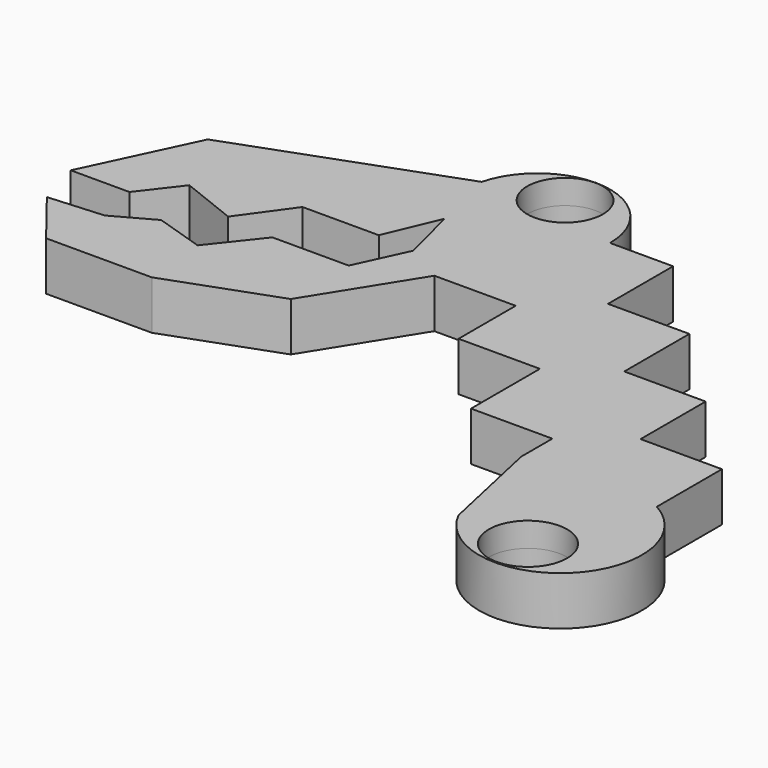
from build123d import *

# Parameters (mm, degrees)
F0_R          = 3.6659795791
F1_DEPTH      = 2.286
F1_DEPTH_BACK = 2.286


with BuildPart() as f1:
    # F0 (on Top) → F1 (new body, two sides)
    with BuildSketch(Plane.XY) as f1_sk:
        with BuildLine():
            ThreePointArc((-10.7581636849, 38.5943156396), (-12.3120194853, 41.5236119371), (-12.2948130254, 44.8394751105))
            Line((-12.2948130254, 44.8394751105), (-32.1341768742, 37.5786978342))
            Line((-32.1341768742, 37.5786978342), (-36.8999519289, 27.4972548299))
            Line((-36.8999519289, 27.4972548299), (-31.4009838641, 27.4972548299))
            Line((-31.4009838641, 27.4972548299), (-28.6514998317, 31.071584724))
            Line((-28.6514998317, 31.071584724), (-23.3358272255, 28.9636466709))
            Line((-23.3358272255, 28.9636466709), (-20.0364456416, 33.5461209119))
            Line((-20.0364456416, 33.5461209119), (-12.8877867848, 33.5461209119))
            Line((-12.8877867848, 33.5461209119), (-10.7581636849, 38.5943156396))
        make_face()
        with BuildLine():
            Line((-5.712940873, 31.071584724), (-5.712940873, 36.3514380628))
            ThreePointArc((-5.712940873, 36.3514380628), (-8.4735917494, 36.9374208909), (-10.7581636849, 38.5943156396))
            Line((-10.7581636849, 38.5943156396), (-9.405106017, 33.179522777))
            Line((-9.405106017, 33.179522777), (-11.6046943605, 28.413749585))
            Line((-11.6046943605, 28.413749585), (-18.7533550799, 28.413749585))
            Line((-18.7533550799, 28.413749585), (-22.2360358477, 24.0145740621))
            Line((-22.2360358477, 24.0145740621), (-26.8185079933, 25.4809661359))
            Line((-26.8185079933, 25.4809661359), (-30.4844879449, 23.4646779076))
            Line((-30.4844879449, 23.4646779076), (-35.6168613673, 23.0980795399))
            Line((-35.6168613673, 23.0980795399), (-31.584283048, 17.9657079802))
            Line((-31.584283048, 17.9657079802), (-21.6861382962, 17.9657079802))
            Line((-21.6861382962, 17.9657079802), (-11.6046943605, 21.6316870005))
            Line((-11.6046943605, 21.6316870005), (-5.712940873, 31.071584724))
        make_face()
        with BuildLine():
            Line((-4.2532354575, 43.1473446608), (1.0829657251, 43.1473446608))
            ThreePointArc((1.0829657251, 43.1473446608), (-4.8601343001, 49.8895303182), (-12.2948130254, 44.8394751105))
            ThreePointArc((-12.2948130254, 44.8394751105), (-12.3120194853, 41.5236119371), (-10.7581636849, 38.5943156396))
            ThreePointArc((-10.7581636849, 38.5943156396), (-8.4735917494, 36.9374208909), (-5.712940873, 36.3514380628))
            Line((-5.712940873, 36.3514380628), (-5.712940873, 42.832795892))
            ThreePointArc((-5.712940873, 42.832795892), (-8.219106195, 48.883214202), (-2.168687885, 46.3770488799))
            ThreePointArc((-2.168687885, 46.3770488799), (-2.7350813629, 44.4550494051), (-4.2532354575, 43.1473446608))
        make_face()
        with BuildLine():
            ThreePointArc((-5.712940873, 36.3514380628), (-0.9075092332, 38.341913021), (1.0829657251, 43.1473446608))
            Line((1.0829657251, 43.1473446608), (-4.2532354575, 43.1473446608))
            ThreePointArc((-4.2532354575, 43.1473446608), (-4.9663350821, 42.9123253649), (-5.712940873, 42.832795892))
            Line((-5.712940873, 42.832795892), (-5.712940873, 36.3514380628))
        make_face()
        with BuildLine():
            Line((6.987059127, 35.5273446608), (6.987059127, 43.1473446608))
            Line((6.987059127, 43.1473446608), (1.0829657251, 43.1473446608))
            ThreePointArc((1.0829657251, 43.1473446608), (-0.9075092332, 38.341913021), (-5.712940873, 36.3514380628))
            Line((-5.712940873, 36.3514380628), (-5.712940873, 31.071584724))
            Line((-5.712940873, 31.071584724), (1.907059127, 31.071584724))
            Line((1.907059127, 31.071584724), (1.907059127, 24.3811724298))
            Line((1.907059127, 24.3811724298), (9.527059127, 24.3811724298))
            Line((9.527059127, 24.3811724298), (9.527059127, 16.3160171882))
            Line((9.527059127, 16.3160171882), (17.147059127, 16.3160171882))
            Line((17.147059127, 16.3160171882), (17.147059127, 12.6673446608))
            Line((17.147059127, 12.6673446608), (22.4627302145, 12.6673446608))
            Line((22.4627302145, 12.6673446608), (29.847059127, 12.6673446608))
            Line((29.847059127, 12.6673446608), (29.847059127, 20.2873446608))
            Line((29.847059127, 20.2873446608), (22.227059127, 20.2873446608))
            Line((22.227059127, 20.2873446608), (22.227059127, 27.9073446608))
            Line((22.227059127, 27.9073446608), (14.607059127, 27.9073446608))
            Line((14.607059127, 27.9073446608), (14.607059127, 35.5273446608))
            Line((14.607059127, 35.5273446608), (6.987059127, 35.5273446608))
        make_face()
        with BuildLine():
            Line((29.847059127, 12.6673446608), (22.4627302145, 12.6673446608))
            ThreePointArc((22.4627302145, 12.6673446608), (19.6683145281, 10.0001717736), (18.54095211, 6.3053613295))
            Line((18.54095211, 6.3053613295), (19.3654773553, 2.5420768229))
            ThreePointArc((19.3654773553, 2.5420768229), (31.449090173, 0.5210860144), (29.847059127, 12.6673446608))
        make_face()
        with Locations((26.1548946708, 2.2019967959)):
            Circle(F0_R, mode=Mode.SUBTRACT)
        with BuildLine():
            Line((22.4627302145, 12.6673446608), (17.147059127, 12.6673446608))
            Line((17.147059127, 12.6673446608), (18.54095211, 6.3053613295))
            ThreePointArc((18.54095211, 6.3053613295), (19.6683145281, 10.0001717736), (22.4627302145, 12.6673446608))
        make_face()
    extrude(amount=F1_DEPTH)
    extrude(f1_sk.sketch, amount=-F1_DEPTH_BACK)


solid = f1.part
